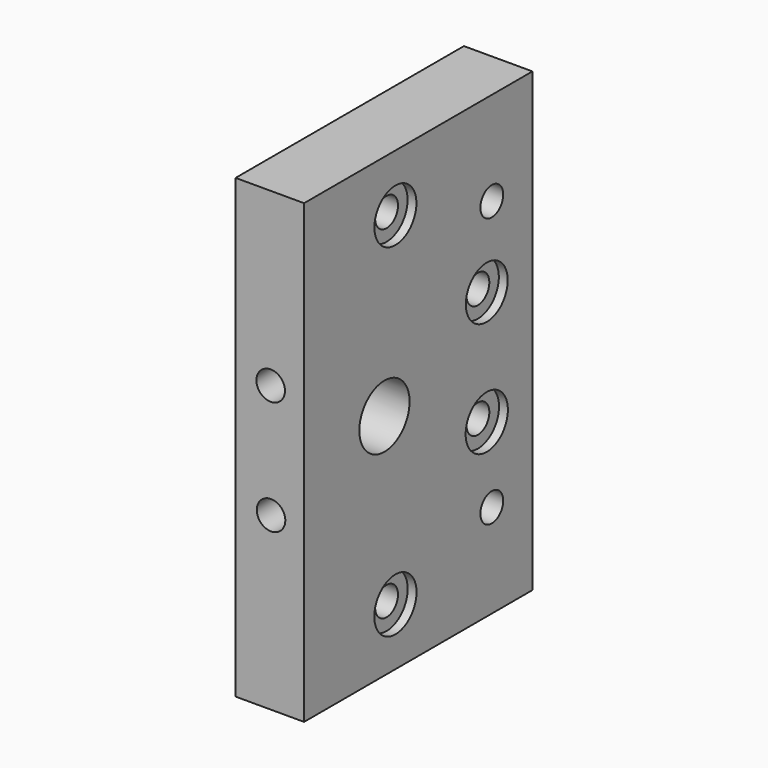
from build123d import *

# Parameters (mm, degrees)
SKETCH014_W     = 80
SKETCH014_H     = 50
SKETCH014_R     = 2.5
SKETCH014_R_2   = 5.5
PAD003_DEPTH    = 12
SKETCH015_R     = 2.5
POCKET009_DEPTH = 11
SKETCH016_R     = 8.05
POCKET010_DEPTH = 4.5
SKETCH017_R     = 4.6
SKETCH017_R_2   = 4.624594
SKETCH017_R_3   = 4.583454
SKETCH017_R_4   = 4.624604
POCKET011_DEPTH = 1.55


with BuildPart() as part:
    # Sketch014 → Pad003 (new body)
    with BuildSketch(Plane(origin=(362, 410, 260), x_dir=(0, 0, -1), z_dir=(-1, 0, 0))):
        with Locations((40, 25)):
            Rectangle(SKETCH014_W, SKETCH014_H)
        with Locations((10, 30)):
            Circle(SKETCH014_R, mode=Mode.SUBTRACT)
        with Locations((30, 10)):
            Circle(SKETCH014_R, mode=Mode.SUBTRACT)
        with Locations((16.4, 8.9)):
            Circle(SKETCH014_R, mode=Mode.SUBTRACT)
        with Locations((50, 10)):
            Circle(SKETCH014_R, mode=Mode.SUBTRACT)
        with Locations((63.6, 8.9)):
            Circle(SKETCH014_R, mode=Mode.SUBTRACT)
        with Locations((70, 30)):
            Circle(SKETCH014_R, mode=Mode.SUBTRACT)
        with Locations((40, 32.4)):
            Circle(SKETCH014_R_2, mode=Mode.SUBTRACT)
    extrude(amount=PAD003_DEPTH)

    # Sketch015 → Pocket009 (cut)
    with BuildSketch(Plane(origin=(362, 360, 260), x_dir=(0, 0, 1), z_dir=(0, -1, 0))):
        with Locations((-30.033846, 5.850095)):
            Circle(SKETCH015_R)
        with Locations((-50.003807, 5.788844)):
            Circle(SKETCH015_R)
    extrude(amount=-POCKET009_DEPTH, mode=Mode.SUBTRACT)

    # Sketch016 → Pocket010 (cut)
    with BuildSketch(Plane(origin=(350, 410, 260), x_dir=(0, 0, -1), z_dir=(-1, 0, 0))):
        with Locations((40, 32.4)):
            Circle(SKETCH016_R)
    extrude(amount=-POCKET010_DEPTH, mode=Mode.SUBTRACT)

    # Sketch017 → Pocket011 (cut)
    with BuildSketch(Plane(origin=(362, 410, 260), x_dir=(0, 0, -1), z_dir=(1, 0, 0))):
        with Locations((10, -30)):
            Circle(SKETCH017_R)
        with Locations((70, -30)):
            Circle(SKETCH017_R_2)
        with Locations((30, -10)):
            Circle(SKETCH017_R_3)
        with Locations((50, -10)):
            Circle(SKETCH017_R_4)
    extrude(amount=-POCKET011_DEPTH, mode=Mode.SUBTRACT)


solid = part.part
